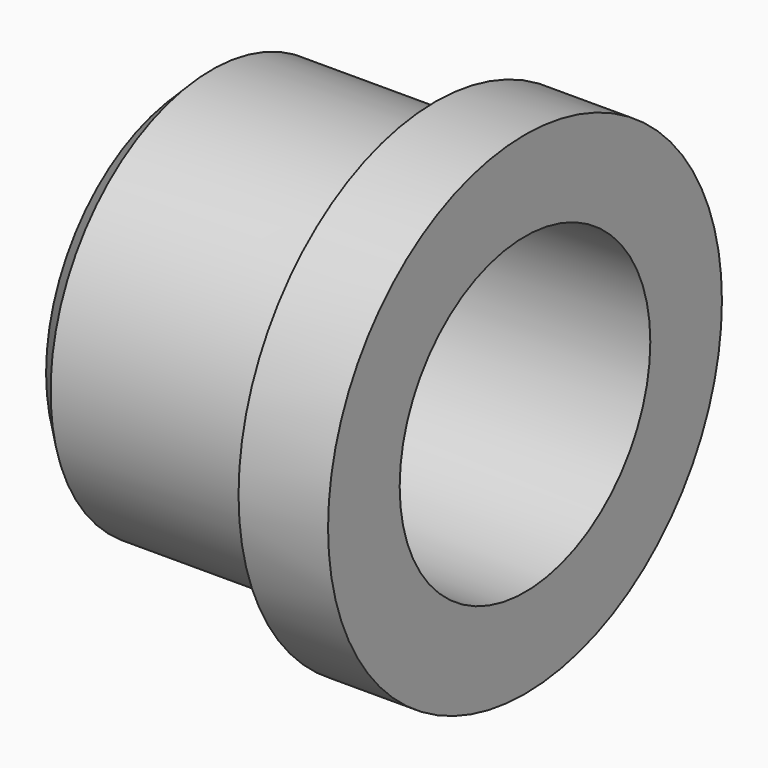
from build123d import *

# Parameters (mm, degrees)
F2_SIZE = 1


with BuildPart() as f1:
    # F0 (on Top) → F1 (revolve)
    with BuildSketch(Plane.XY):
        Polygon((0, 9), (0, 7), (15, 7), (15, 11), (11, 11), (11, 9), align=None)
    revolve(axis=Axis((8.499999, 0, 0), (1, 0, 0)))

    # F2
    f2_edges = [f1.edges().sort_by_distance(p)[0] for p in [
        (0, -9, 0),
    ]]
    chamfer(f2_edges, length=F2_SIZE)


solid = f1.part
